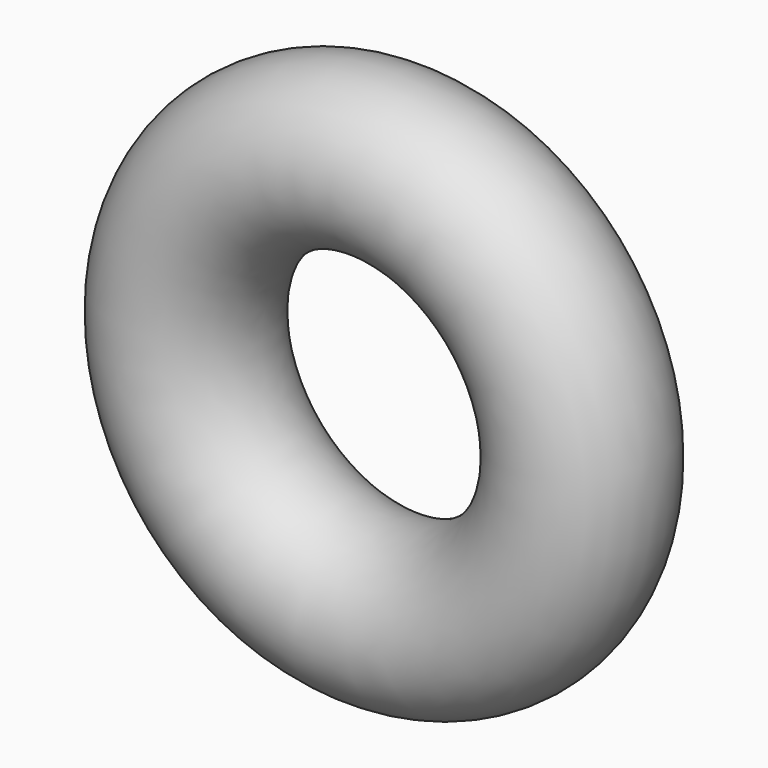
from build123d import *

# Parameters (mm, degrees)
F0_R = 50.8


with BuildPart() as f1:
    # F0 (on Top) → F1 (revolve)
    with BuildSketch(Plane.XY):
        Circle(F0_R)
    revolve(axis=Axis((-127, 3.213206, 0), (0, 1, 0)))


solid = f1.part
